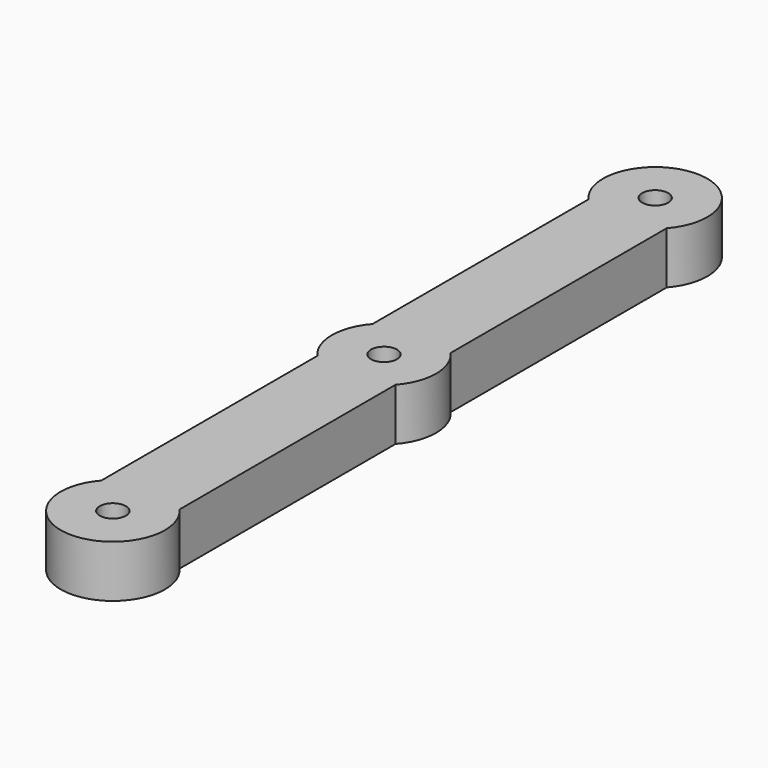
from build123d import *

# Parameters (mm, degrees)
F0_R     = 0.5
F1_DEPTH = 2


with BuildPart() as f1:
    # F0 (on Top) → F1 (new body)
    with BuildSketch(Plane.XY):
        with BuildLine():
            ThreePointArc((1.5, 11.677124), (0, 15), (-1.5, 11.677124))
            Line((-1.5, 11.677124), (-1.5, 1.322876))
            ThreePointArc((-1.5, 1.322876), (-2, 0), (-1.5, -1.322876))
            Line((-1.5, -1.322876), (-1.5, -11.677124))
            ThreePointArc((-1.5, -11.677124), (0, -15), (1.5, -11.677124))
            Line((1.5, -11.677124), (1.5, -1.322876))
            ThreePointArc((1.5, -1.322876), (2, 0), (1.5, 1.322876))
            Line((1.5, 1.322876), (1.5, 11.677124))
        make_face()
        with Locations((0, -13)):
            Circle(F0_R, mode=Mode.SUBTRACT)
        Circle(F0_R, mode=Mode.SUBTRACT)
        with Locations((0, 13)):
            Circle(F0_R, mode=Mode.SUBTRACT)
    extrude(amount=F1_DEPTH)


solid = f1.part
